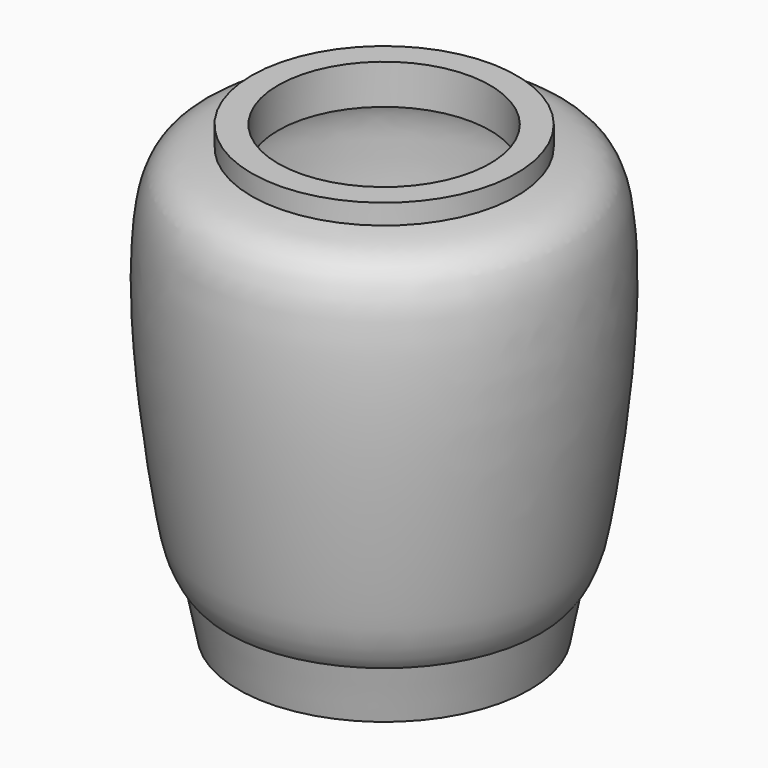
from build123d import *


with BuildPart() as f1:
    # F0 (on Front) → F1 (revolve)
    with BuildSketch(Plane.XZ):
        with BuildLine():
            Line((-63.5, 12.7), (-50.8, 12.7))
            Line((-50.8, 12.7), (-50.8, 25.4))
            add(Edge.make_bspline(
                [(-50.8, 196.7292263527), (-55.4893262235, 196.2039625073), (-65.8545906197, 195.2600382897), (-82.0716172237, 185.3475962145), (-85.641164119, 162.1853411346), (-83.9697627929, 103.8795101599), (-74.5619746661, 46.4580197926), (-69.7616856244, 27.6024186187), (-57.2313578049, 26.1272115119), (-50.8, 25.4)],
                knots=[0, 0, 0, 0, 0.1069763712, 0.2200221229, 0.3466449315, 0.5617326258, 0.7753448222, 0.8856365704, 1, 1, 1, 1], degree=3))
            Line((-50.8, 196.7292263527), (-50.8, 215.7792263527))
            Line((-50.8, 215.7792263527), (-63.5, 215.7792263527))
            Line((-63.5, 215.7792263527), (-63.5, 206.1272263527))
            add(Edge.make_bspline(
                [(-63.5, 206.1272263527), (-71.4575969978, 205.063067953), (-89.5377256718, 203.0171096587), (-96.2050962488, 165.8234545976), (-93.7919861007, 107.3007174993), (-84.5384389717, 44.7397990425), (-81.0886634133, 35.8235857126), (-77.7536841536, 28.1368566047), (-74.900061506, 25.303710252)],
                knots=[0, 0, 0, 0, 0.1456235773, 0.3172765114, 0.5641615023, 0.8027610497, 0.8960181934, 1, 1, 1, 1], degree=3))
            Line((-74.900061506, 25.303710252), (-69.85, 0))
            Line((-69.85, 0), (-63.5, 0))
            Line((-63.5, 0), (-63.5, 12.7))
        make_face()
    revolve(axis=Axis((0, 0, 107.7804267406), (0, 0, -1)))


solid = f1.part
